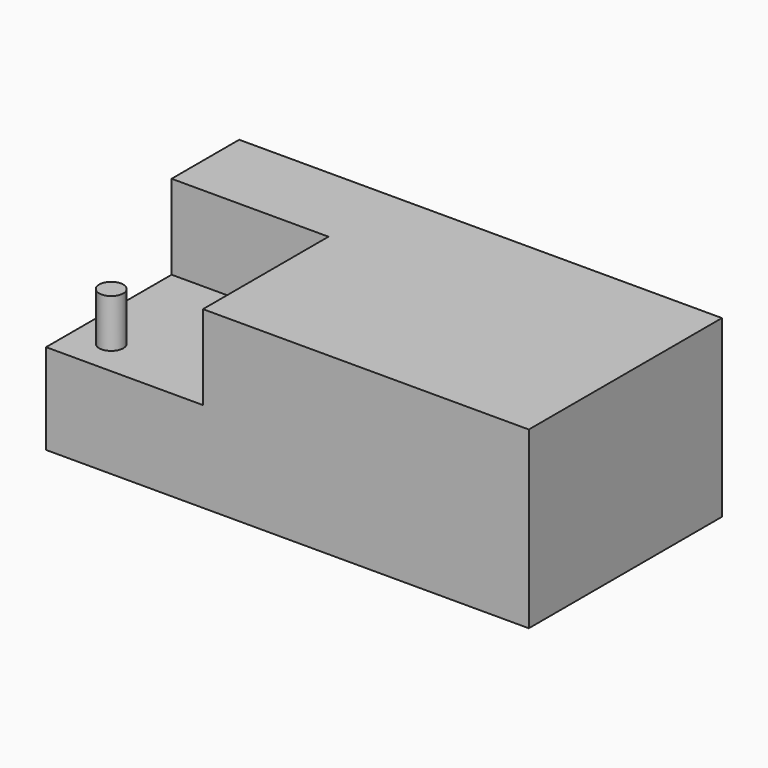
from build123d import *

# Parameters (mm, degrees)
F0_W     = 1016
F0_H     = 508
F1_DEPTH = 368.3
F2_W     = 330.2
F2_H     = 330.2
F3_DEPTH = 177.8
F4_R     = 25.4
F5_DEPTH = 101.6


with BuildPart() as f1:
    # F0 (on Top) → F1 (new body)
    with BuildSketch(Plane.XY):
        Rectangle(F0_W, F0_H)
    extrude(amount=F1_DEPTH)

    # F2 (on face) → F3 (cut)
    with BuildSketch(Plane.XY.offset(368.3)):
        with Locations((-342.9, -88.9)):
            Rectangle(F2_W, F2_H)
    extrude(amount=-F3_DEPTH, mode=Mode.SUBTRACT)

    # F4 (on face) → F5 (join)
    with BuildSketch(Plane.XY.offset(190.5)):
        with Locations((-431.8, -177.8)):
            Circle(F4_R)
    extrude(amount=F5_DEPTH)


solid = f1.part
